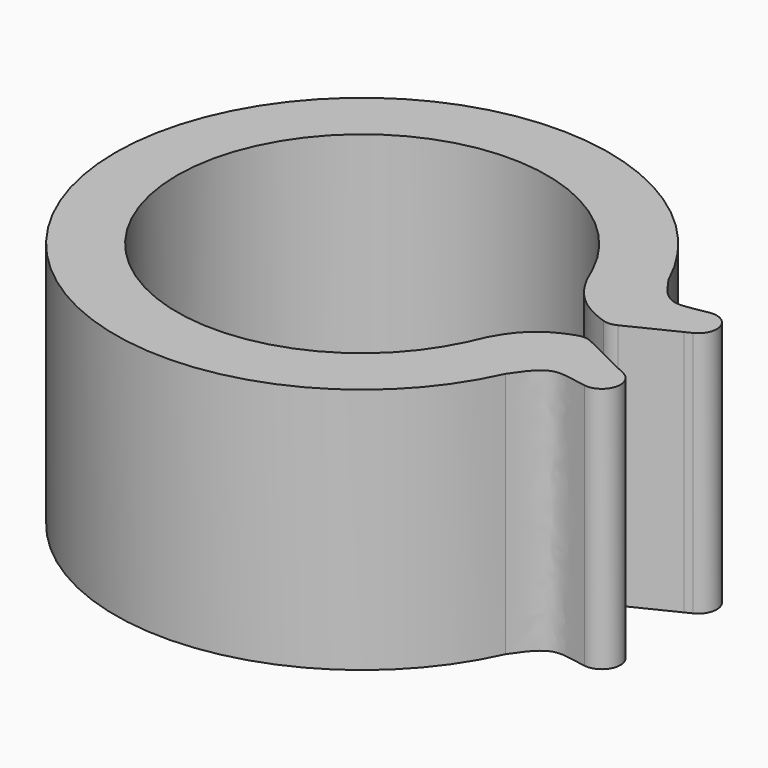
from build123d import *

# Parameters (mm, degrees)
F1_DEPTH = 8


with BuildPart() as f1:
    # F0 (on Top) → F1 (new body)
    with BuildSketch(Plane.XY):
        with BuildLine():
            ThreePointArc((-6, 0), (-1.2982424862, 5.8578636419), (5.4381888157, 2.5349758194))
            add(Edge.make_bspline(
                [(5.4381888157, 2.5349758194), (5.9168648922, 1.3048778647), (6.5712223704, 0.8342077495), (7.316287914, 0.5489782253), (7.3954237393, 0.5231885691)],
                knots=[0, 0, 0, 0, 0.5130903697, 0.5729750339, 0.5729750339, 0.5729750339, 0.5729750339], degree=3))
            ThreePointArc((7.3954237393, 0.5231885691), (7.6236703696, 0.4951548346), (7.8456981312, 0.5550387858))
            Line((7.8456981312, 0.5550387858), (9.3807354753, 1.30845808))
            Line((9.3807354753, 1.30845808), (9.5947175059, 1.4134836619))
            ThreePointArc((9.5947175059, 1.4134836619), (9.9019177362, 2.1346293669), (9.2336132629, 2.544253878))
            add(Edge.make_bspline(
                [(7.2891862958, 3.2966290579), (7.9620901058, 2.2604630582), (8.2498794852, 2.3761286058), (9.1349400628, 2.5281333533), (9.2336132629, 2.544253878)],
                knots=[0, 0, 0, 0, 0.4310159689, 0.4819722472, 0.4819722472, 0.4819722472, 0.4819722472], degree=3))
            ThreePointArc((7.2891862958, 3.2966290579), (-1.6861953673, 7.8202778201), (-8, 0))
            ThreePointArc((-8, 0), (-1.6861953673, -7.8202778201), (7.2891862958, -3.2966290579))
            add(Edge.make_bspline(
                [(7.2891862958, -3.2966290579), (7.9620901058, -2.2604630582), (8.2498794852, -2.3761286058), (9.1349400628, -2.5281333533), (9.2336132629, -2.544253878)],
                knots=[0, 0, 0, 0, 0.4310159689, 0.4819722472, 0.4819722472, 0.4819722472, 0.4819722472], degree=3))
            ThreePointArc((9.2336132629, -2.544253878), (9.9019177362, -2.1346293669), (9.5947175059, -1.4134836619))
            Line((9.5947175059, -1.4134836619), (9.3807354753, -1.30845808))
            Line((9.3807354753, -1.30845808), (7.8456981312, -0.5550387858))
            ThreePointArc((7.8456981312, -0.5550387858), (7.6236703696, -0.4951548346), (7.3954237393, -0.5231885691))
            add(Edge.make_bspline(
                [(5.4381888157, -2.5349758194), (5.9168648922, -1.3048778647), (6.5712223704, -0.8342077495), (7.316287914, -0.5489782253), (7.3954237393, -0.5231885691)],
                knots=[0, 0, 0, 0, 0.5130903697, 0.5729750339, 0.5729750339, 0.5729750339, 0.5729750339], degree=3))
            ThreePointArc((5.4381888157, -2.5349758194), (-1.2982424862, -5.8578636419), (-6, 0))
        make_face()
    extrude(amount=F1_DEPTH)


solid = f1.part
